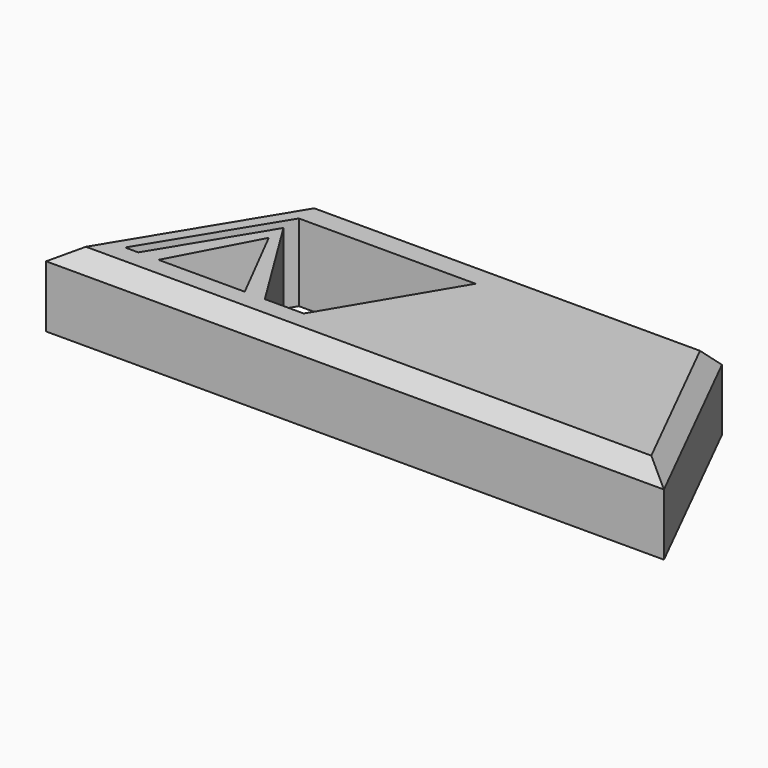
from build123d import *

# Parameters (mm, degrees)
F1_DEPTH = 25.4
F2_SIZE  = 5.08
F3_SIZE  = 5.08
F4_DEPTH = 25.4


with BuildPart() as f1:
    # F0 (on Top) → F1 (new body)
    with BuildSketch(Plane.XY):
        Polygon((-96.55295, 82.698783), (-135.158697, 19.198783), (68.041303, 19.198783), (36.314912, 82.698783), align=None)
        Polygon((-107.044348, 30.241039), (-113.656216, 30.241039), (-118.00166, 30.241039), (-93.268513, 70.743374), (-86.106063, 70.743374), (-79.70608, 70.743374), (-73.083729, 70.743374), (-48.325919, 70.743374), (-41.849952, 70.743374), (-35.128757, 70.743374), (-59.245978, 30.241039), (-66.7454, 30.241039), (-72.049234, 30.241039), (-78.653234, 30.241039), align=None, mode=Mode.SUBTRACT)
    extrude(amount=F1_DEPTH)

    # F2
    f2_edges = [f1.edges().sort_by_distance(p)[0] for p in [
        (-30.119019, 82.698783, 25.4),
        (-115.855824, 50.948783, 25.4),
        (52.178107, 50.948783, 25.4),
    ]]
    chamfer(f2_edges, length=F2_SIZE)

    # F3
    f3_edges = [f1.edges().sort_by_distance(p)[0] for p in [
        (-33.425499, 19.198783, 25.4),
    ]]
    chamfer(f3_edges, length=F3_SIZE)

    # F0 (on Top) → F4 (join)
    with BuildSketch(Plane.XY):
        Polygon((-72.049234, 30.241039), (-93.047231, 64.139374), (-113.656216, 30.241039), (-107.044348, 30.241039), (-92.57324, 57.535374), (-78.653234, 30.241039), align=None)
    extrude(amount=F4_DEPTH)


solid = f1.part
